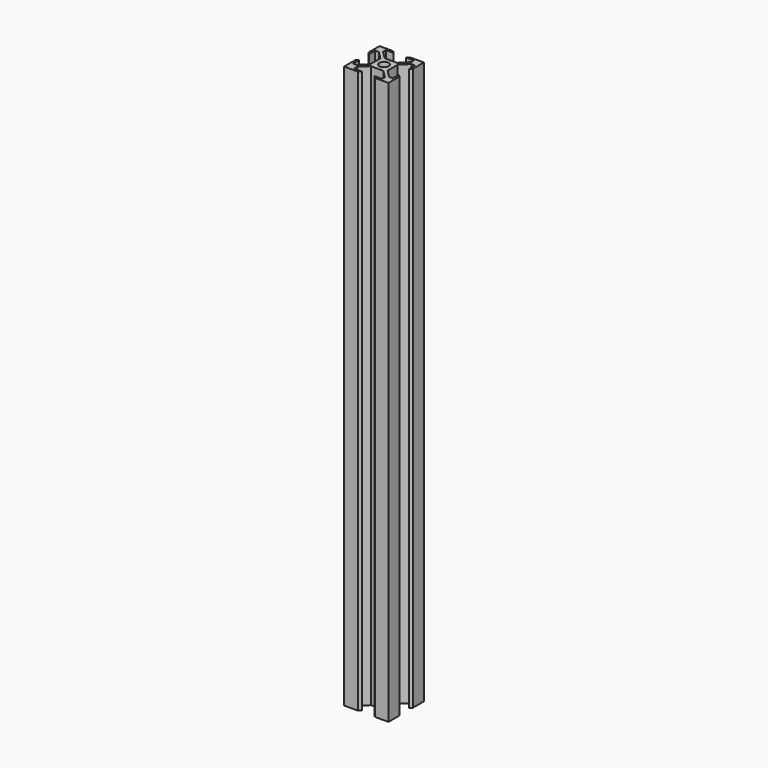
from build123d import *

# Parameters (mm, degrees)
F0_R     = 2.1
F1_DEPTH = 254


with BuildPart() as f1:
    # F0 (on Top) → F1 (new body)
    with BuildSketch(Plane.XY):
        Polygon((-3.45993, 3.45993), (0, 0), (0, -5.68), (-3.45993, -9.13993), (-5.09993, -9.13993), (-5.09993, -5.68), (-6.09934, -6.68059), (-6.09934, -12.84059), (0.06066, -12.84059), (1.06066, -11.84059), (-2.39927, -11.84059), (-2.39927, -10.20059), (1.06066, -6.74066), (6.74066, -6.74066), (10.20059, -10.20059), (10.20059, -11.84059), (6.74066, -11.84059), (7.740955, -12.840295), (13.900955, -12.840295), (13.900955, -6.680295), (12.90125, -5.68), (12.90125, -9.13993), (11.26125, -9.13993), (7.80132, -5.68), (7.80132, 0), (11.26125, 3.45993), (12.90125, 3.45993), (12.90125, 0), (13.90066, 1.00059), (13.90066, 7.16059), (7.74066, 7.16059), (6.74066, 6.16059), (10.20059, 6.16059), (10.20059, 4.52059), (6.74066, 1.06066), (1.06066, 1.06066), (-2.39927, 4.52059), (-2.39927, 6.16059), (1.06066, 6.16059), (0.06066, 7.16059), (-6.09934, 7.16059), (-6.09934, 1.00059), (-5.09993, 0), (-5.09993, 3.45993), align=None)
        with Locations((3.90066, -2.84)):
            Circle(F0_R, mode=Mode.SUBTRACT)
    extrude(amount=F1_DEPTH)


solid = f1.part
